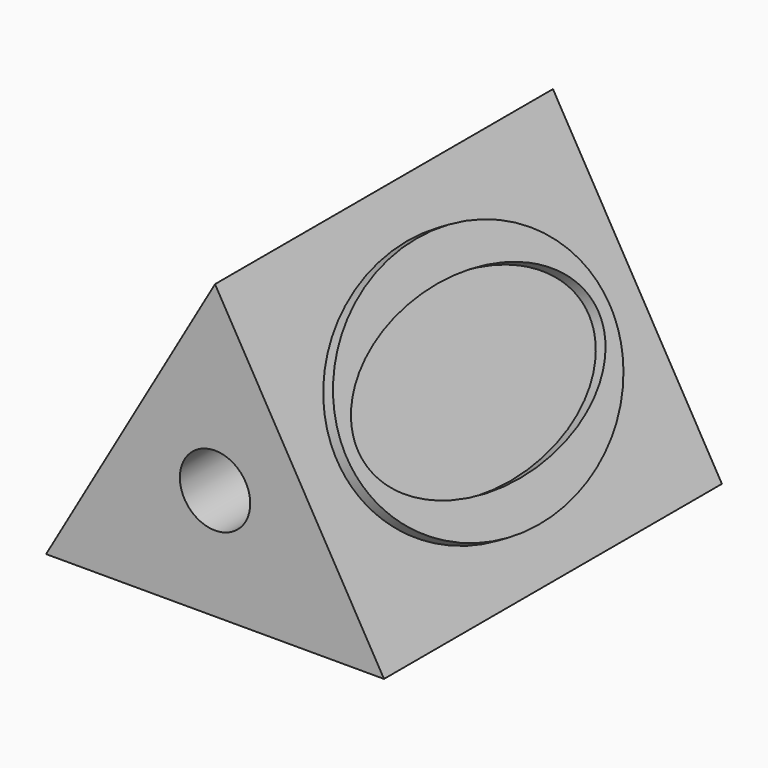
from build123d import *

# Parameters (mm, degrees)
F1_DEPTH = 19.05
F4_DEPTH = 0.508
F6_DEPTH = 0.508
F7_R     = 1.5875
F8_DEPTH = 25.4


with BuildPart() as f1:
    # F0 (on Front) → F1 (new body)
    with BuildSketch(Plane.XZ):
        Polygon((0, 13.1982271537), (-7.62, 0), (7.62, 0), align=None)
    extrude(amount=F1_DEPTH)

    # F2 (on face) → F4 (join)
    with BuildSketch(Plane(origin=(5.715, 0, 3.2995567884), x_dir=(0, 1, 0), z_dir=(0.8660254038, 0, 0.5))):
        with BuildLine():
            add(Edge.make_bspline(
                [(-2.0999179687, 3.81), (-2.0999179687, 13.3745915526), (-13.2375410156, 8.5922957763), (-24.3751640625, 3.81), (-13.2375410156, -0.9722957763), (-2.0999179687, -5.7545915526), (-2.0999179687, 3.81)],
                knots=[0, 0, 0, 2.0943951024, 2.0943951024, 4.1887902048, 4.1887902048, 6.2831853072, 6.2831853072, 6.2831853072], degree=2, weights=[1, 0.5, 1, 0.5, 1, 0.5, 1]))
        make_face()
        with BuildLine():
            add(Edge.make_bspline(
                [(-16.3071341813, 3.81), (-16.3071341813, -2.6864151896), (-6.1339329094, 0.5617924052), (4.0392683625, 3.81), (-6.1339329094, 7.0582075948), (-16.3071341813, 10.3064151896), (-16.3071341813, 3.81)],
                knots=[0, 0, 0, 2.0943951024, 2.0943951024, 4.1887902048, 4.1887902048, 6.2831853072, 6.2831853072, 6.2831853072], degree=2, weights=[1, 0.5, 1, 0.5, 1, 0.5, 1]))
        make_face(mode=Mode.SUBTRACT)
    extrude(amount=F4_DEPTH)

    # F5 (on face) → F6 (join)
    with BuildSketch(Plane(origin=(-5.715, 0, 3.2995567884), x_dir=(0, -1, 0), z_dir=(-0.8660254038, 0, 0.5))):
        with BuildLine():
            Line((9.5169473699, 2.6623777802), (8.0841222252, 3.8086378959))
            Line((8.0841222252, 3.8086378959), (3.403248724, 0.063939095))
            ThreePointArc((3.403248724, 0.063939095), (3.263460905, -1.194151276), (4.521551276, -1.333939095))
            Line((4.521551276, -1.333939095), (9.5169473699, 2.6623777802))
        make_face()
        with BuildLine():
            Line((15.6366038973, 0.0591923716), (10.9497847532, 3.8086476868))
            Line((10.9497847532, 3.8086476868), (9.5169473699, 2.6623777802))
            Line((9.5169473699, 2.6623777802), (14.5182917932, -1.3386977585))
            ThreePointArc((14.5182917932, -1.3386977585), (15.7763929103, -1.1989087455), (15.6366038973, 0.0591923716))
        make_face()
        with BuildLine():
            Line((14.5234926265, 8.9601342169), (9.5169596085, 4.9549078026))
            Line((9.5169596085, 4.9549078026), (10.9497847532, 3.8086476868))
            Line((10.9497847532, 3.8086476868), (15.5101895109, 7.456971493))
            ThreePointArc((15.5101895109, 7.456971493), (15.8425048748, 8.7505300422), (14.5234926265, 8.9601342169))
        make_face()
        with BuildLine():
            Line((9.5169596085, 4.9549078026), (4.5213740072, 8.9513762837))
            ThreePointArc((4.5213740072, 8.9513762837), (3.2632728901, 8.8115872707), (3.4030619031, 7.5534861536))
            Line((3.4030619031, 7.5534861536), (8.0841222252, 3.8086378959))
            Line((8.0841222252, 3.8086378959), (9.5169596085, 4.9549078026))
        make_face()
        Polygon((10.9497847532, 3.8086476868), (9.5169596085, 4.9549078026), (8.0841222252, 3.8086378959), (9.5169473699, 2.6623777802), align=None)
    extrude(amount=F6_DEPTH)

    # F7 (on face) → F8 (cut)
    with BuildSketch(Plane.XZ.offset(19.05)):
        with Locations((0, 5.0038)):
            Circle(F7_R)
    extrude(amount=-F8_DEPTH, mode=Mode.SUBTRACT)


solid = f1.part
